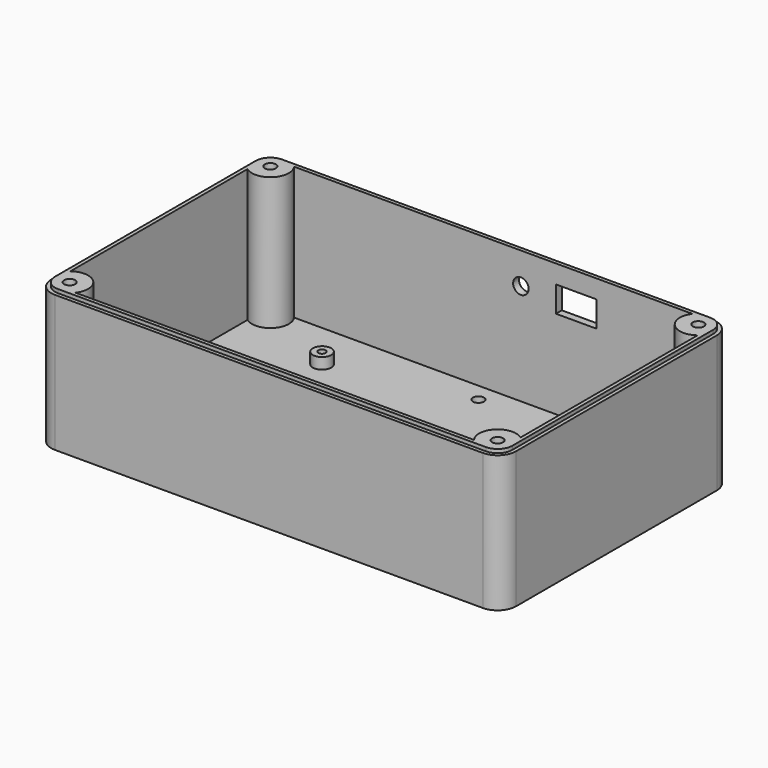
from build123d import *

# Parameters (mm, degrees)
F0_W      = 102
F0_H      = 54
F0_R      = 2.5
F1_DEPTH  = 2
F2_DEPTH  = 5
F3_DEPTH  = 38
F4_D      = 3
F4_DEPTH  = 5
F4_TIP    = 0.9012909285
F6_D      = 3
F6_DEPTH  = 20
F6_TIP    = 0.9012909285
F7_DEPTH  = 1
F8_R      = 5
F9_DEPTH  = 2
F10_W     = 11
F10_H     = 7
F10_R     = 2.1
F11_DEPTH = 2
F12_D     = 2
F12_DEPTH = 5
F12_TIP   = 0.600860619


with BuildPart() as f1:
    # F0 (on Top) → F1 (new body)
    with BuildSketch(Plane.XY):
        with BuildLine():
            Line((54, 37), (-54, 37))
            ThreePointArc((-54, 37), (-54.4644660941, 30.4644660941), (-61, 30))
            Line((-61, 30), (-61, -30))
            ThreePointArc((-61, -30), (-54.4644660941, -30.4644660941), (-54, -37))
            Line((-54, -37), (54, -37))
            ThreePointArc((54, -37), (54.4644660941, -30.4644660941), (61, -30))
            Line((61, -30), (61, 30))
            ThreePointArc((61, 30), (54.4644660941, 30.4644660941), (54, 37))
        make_face()
        Rectangle(F0_W, F0_H, mode=Mode.SUBTRACT)
        Rectangle(F0_W, F0_H)
        with Locations((14, -19.5)):
            Circle(F0_R, mode=Mode.SUBTRACT)
        with Locations((-36, 24)):
            Circle(F0_R, mode=Mode.SUBTRACT)
        with Locations((14, 8.5)):
            Circle(F0_R, mode=Mode.SUBTRACT)
    extrude(amount=F1_DEPTH)

    # F0 (on Top) → F2 (join)
    with BuildSketch(Plane.XY):
        with Locations((-36, 24)):
            Circle(F0_R)
        with Locations((14, 8.5)):
            Circle(F0_R)
        with Locations((14, -19.5)):
            Circle(F0_R)
    extrude(amount=F2_DEPTH)

    # F0 (on Top) → F3 (join)
    with BuildSketch(Plane.XY):
        with BuildLine():
            ThreePointArc((-61, 32), (-59.5355339059, 35.5355339059), (-56, 37))
            Line((-56, 37), (-54, 37))
            ThreePointArc((-54, 37), (-55.7639320225, 38.472135955), (-58, 39))
            ThreePointArc((-58, 39), (-61.5355339059, 37.5355339059), (-63, 34))
            ThreePointArc((-63, 34), (-62.472135955, 31.7639320225), (-61, 30))
            Line((-61, 30), (-61, 32))
        make_face()
        with BuildLine():
            ThreePointArc((58, 39), (55.7639320225, 38.472135955), (54, 37))
            Line((54, 37), (56, 37))
            ThreePointArc((56, 37), (59.5355339059, 35.5355339059), (61, 32))
            Line((61, 32), (61, 30))
            ThreePointArc((61, 30), (62.472135955, 31.7639320225), (63, 34))
            ThreePointArc((63, 34), (61.5355339059, 37.5355339059), (58, 39))
        make_face()
        with BuildLine():
            Line((56, 37), (54, 37))
            ThreePointArc((54, 37), (54.4644660941, 30.4644660941), (61, 30))
            Line((61, 30), (61, 32))
            ThreePointArc((61, 32), (59.5355339059, 35.5355339059), (56, 37))
        make_face()
        with BuildLine():
            Line((-54, 37), (-56, 37))
            ThreePointArc((-56, 37), (-59.5355339059, 35.5355339059), (-61, 32))
            Line((-61, 32), (-61, 30))
            ThreePointArc((-61, 30), (-54.4644660941, 30.4644660941), (-54, 37))
        make_face()
        with BuildLine():
            Line((-61, -30), (-61, 30))
            ThreePointArc((-61, 30), (-62.472135955, 31.7639320225), (-63, 34))
            Line((-63, 34), (-63, -34))
            ThreePointArc((-63, -34), (-62.472135955, -31.7639320225), (-61, -30))
        make_face()
        with BuildLine():
            ThreePointArc((-58, 39), (-55.7639320225, 38.472135955), (-54, 37))
            Line((-54, 37), (54, 37))
            ThreePointArc((54, 37), (55.7639320225, 38.472135955), (58, 39))
            Line((58, 39), (-58, 39))
        make_face()
        with BuildLine():
            ThreePointArc((63, 34), (62.472135955, 31.7639320225), (61, 30))
            Line((61, 30), (61, -30))
            ThreePointArc((61, -30), (62.472135955, -31.7639320225), (63, -34))
            Line((63, -34), (63, 34))
        make_face()
        with BuildLine():
            Line((61, -32), (61, -30))
            ThreePointArc((61, -30), (54.4644660941, -30.4644660941), (54, -37))
            Line((54, -37), (56, -37))
            ThreePointArc((56, -37), (59.5355339059, -35.5355339059), (61, -32))
        make_face()
        with BuildLine():
            ThreePointArc((-54, -37), (-54.4644660941, -30.4644660941), (-61, -30))
            Line((-61, -30), (-61, -32))
            ThreePointArc((-61, -32), (-59.5355339059, -35.5355339059), (-56, -37))
            Line((-56, -37), (-54, -37))
        make_face()
        with BuildLine():
            Line((-61, -32), (-61, -30))
            ThreePointArc((-61, -30), (-62.472135955, -31.7639320225), (-63, -34))
            ThreePointArc((-63, -34), (-61.5355339059, -37.5355339059), (-58, -39))
            ThreePointArc((-58, -39), (-55.7639320225, -38.472135955), (-54, -37))
            Line((-54, -37), (-56, -37))
            ThreePointArc((-56, -37), (-59.5355339059, -35.5355339059), (-61, -32))
        make_face()
        with BuildLine():
            Line((54, -37), (-54, -37))
            ThreePointArc((-54, -37), (-55.7639320225, -38.472135955), (-58, -39))
            Line((-58, -39), (58, -39))
            ThreePointArc((58, -39), (55.7639320225, -38.472135955), (54, -37))
        make_face()
        with BuildLine():
            ThreePointArc((63, -34), (62.472135955, -31.7639320225), (61, -30))
            Line((61, -30), (61, -32))
            ThreePointArc((61, -32), (59.5355339059, -35.5355339059), (56, -37))
            Line((56, -37), (54, -37))
            ThreePointArc((54, -37), (55.7639320225, -38.472135955), (58, -39))
            ThreePointArc((58, -39), (61.5355339059, -37.5355339059), (63, -34))
        make_face()
    extrude(amount=F3_DEPTH)

    # F4
    with Locations(Plane(origin=(0, 0, 0), x_dir=(1, 0, 0), z_dir=(0, 0, -1))):
        with Locations((56, 0), (-56, 0), (0, 32), (0, -32)):
            Hole(F4_D / 2, depth=F4_DEPTH)
            with Locations((0, 0, -(F4_DEPTH + F4_TIP / 2))):  # 118° drill point
                Cone(0, F4_D / 2, F4_TIP, mode=Mode.SUBTRACT)

    # F6
    with Locations(Plane.XY.offset(38)):
        with Locations((-58, 34), (58, 34), (58, -34), (-58, -34)):
            Hole(F6_D / 2, depth=F6_DEPTH)
            with Locations((0, 0, -(F6_DEPTH + F6_TIP / 2))):  # 118° drill point
                Cone(0, F6_D / 2, F6_TIP, mode=Mode.SUBTRACT)

    # F5 (on face) → F7 (cut)
    with BuildSketch(Plane.XY.offset(38)):
        with BuildLine():
            ThreePointArc((58, -39), (61.5355339059, -37.5355339059), (63, -34))
            Line((63, -34), (63, 34))
            ThreePointArc((63, 34), (61.5355339059, 37.5355339059), (58, 39))
            Line((58, 39), (-58, 39))
            ThreePointArc((-58, 39), (-61.5355339059, 37.5355339059), (-63, 34))
            Line((-63, 34), (-63, -34))
            ThreePointArc((-63, -34), (-61.5355339059, -37.5355339059), (-58, -39))
            Line((-58, -39), (58, -39))
        make_face()
        with BuildLine():
            ThreePointArc((58, 38), (60.8284271247, 36.8284271247), (62, 34))
            Line((62, 34), (62, -34))
            ThreePointArc((62, -34), (60.8284271247, -36.8284271247), (58, -38))
            Line((58, -38), (-58, -38))
            ThreePointArc((-58, -38), (-60.8284271247, -36.8284271247), (-62, -34))
            Line((-62, -34), (-62, 34))
            ThreePointArc((-62, 34), (-60.8284271247, 36.8284271247), (-58, 38))
            Line((-58, 38), (58, 38))
        make_face(mode=Mode.SUBTRACT)
    extrude(amount=-F7_DEPTH, mode=Mode.SUBTRACT)

    # F8 (on face) → F9 (cut, through all)
    with BuildSketch(Plane(origin=(-63, 0, 0), x_dir=(0, -1, 0), z_dir=(-1, 0, 0))):
        with Locations((18.5, 13)):
            Circle(F8_R)
    extrude(amount=-F9_DEPTH, mode=Mode.SUBTRACT)

    # F10 (on face) → F11 (cut, through all)
    with BuildSketch(Plane(origin=(0, 39, 0), x_dir=(-1, 0, 0), z_dir=(0, 1, 0))):
        with Locations((-22.5, 29.5)):
            Rectangle(F10_W, F10_H)
        with Locations((-7.5, 29.5)):
            Circle(F10_R)
    extrude(amount=-F11_DEPTH, mode=Mode.SUBTRACT)

    # F12
    with Locations(Plane(origin=(0, 0, 0), x_dir=(1, 0, 0), z_dir=(0, 0, -1))):
        with Locations((-36, -24), (14, -8.5), (14, 19.5)):
            Hole(F12_D / 2, depth=F12_DEPTH)
            with Locations((0, 0, -(F12_DEPTH + F12_TIP / 2))):  # 118° drill point
                Cone(0, F12_D / 2, F12_TIP, mode=Mode.SUBTRACT)


solid = f1.part
